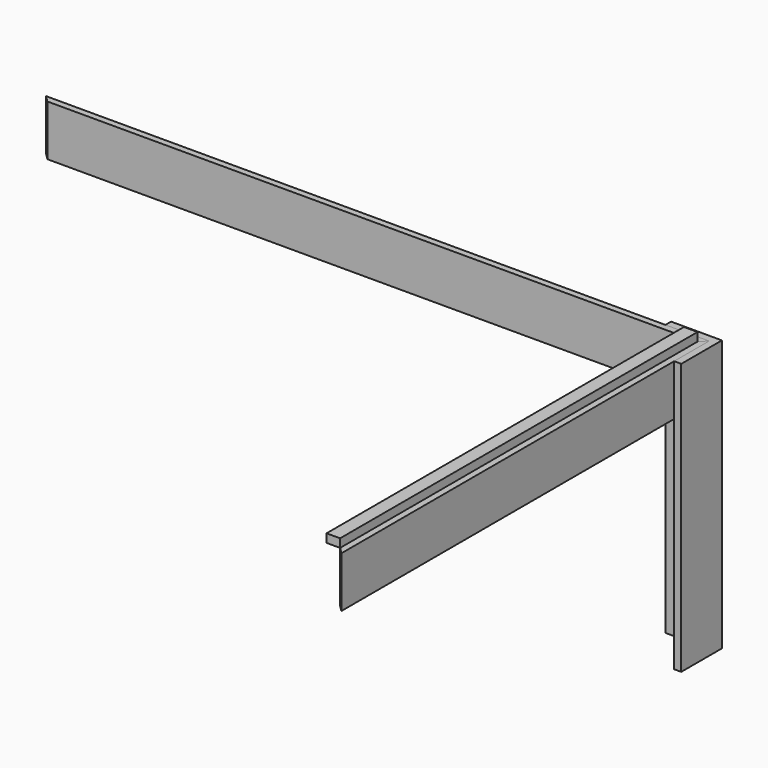
from build123d import *

# Parameters (mm, degrees)
F1_DEPTH = 150
F2_DEPTH = 150
F3_DEPTH = 800
F0_W     = 40
F0_H     = 1318
F4_DEPTH = 25


with BuildPart() as f1:
    # F0 (on Top) → F1 (new body)
    with BuildSketch(Plane.XY):
        Polygon((1187.072175, 751.675022), (1187.072175, 880.675022), (1168.072175, 861.675022), (1168.072175, -456.324978), (1187.072175, -475.324978), align=None)
    extrude(amount=-F1_DEPTH)


with BuildPart() as f2:
    # F0 (on Top) → F2 (new body)
    with BuildSketch(Plane.XY):
        Polygon((1058.072175, 880.675022), (-768.927825, 880.675022), (-749.927825, 861.675022), (1128.072175, 861.675022), (1168.072175, 861.675022), (1187.072175, 880.675022), align=None)
    extrude(amount=-F2_DEPTH)


with BuildPart() as f3:
    # F0 (on Top) → F3 (new body)
    with BuildSketch(Plane.XY):
        Polygon((1058.072175, 901.675022), (1058.072175, 880.675022), (1187.072175, 880.675022), (1208.072175, 901.675022), align=None)
        Polygon((1208.072175, 901.675022), (1187.072175, 880.675022), (1187.072175, 751.675022), (1208.072175, 751.675022), align=None)
    extrude(amount=-F3_DEPTH)


with BuildPart() as f4:
    # F0 (on Top) → F4 (new body)
    with BuildSketch(Plane.XY):
        with Locations((1148.072175, 202.675022)):
            Rectangle(F0_W, F0_H)
    extrude(amount=F4_DEPTH)


solid = Compound([f1.part, f2.part, f3.part, f4.part])
